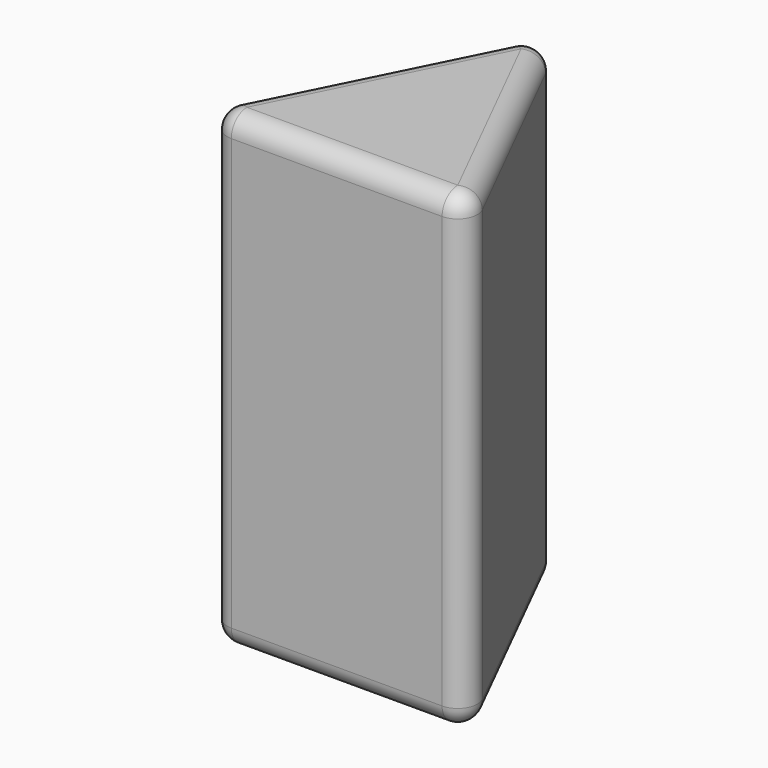
from build123d import *

# Parameters (mm, degrees)
PAD_DEPTH = 12
FILLET_R  = 0.5


with BuildPart() as part:
    # Sketch → Pad (new body)
    with BuildSketch(Plane.XY):
        Polygon((-3.5, 0), (0, 7), (3.5, 0), align=None)
    extrude(amount=PAD_DEPTH)

    # Fillet
    fillet_edges = [part.edges().sort_by_distance(p)[0] for p in [
        (-3.5, 0, 6),
        (-1.75, 3.5, 0),
        (0, 7, 6),
        (-1.75, 3.5, 12),
        (1.75, 3.5, 12),
        (1.75, 3.5, 0),
        (3.5, 0, 6),
        (0, 0, 12),
        (0, 0, 0),
    ]]
    fillet(fillet_edges, radius=FILLET_R)


solid = part.part
